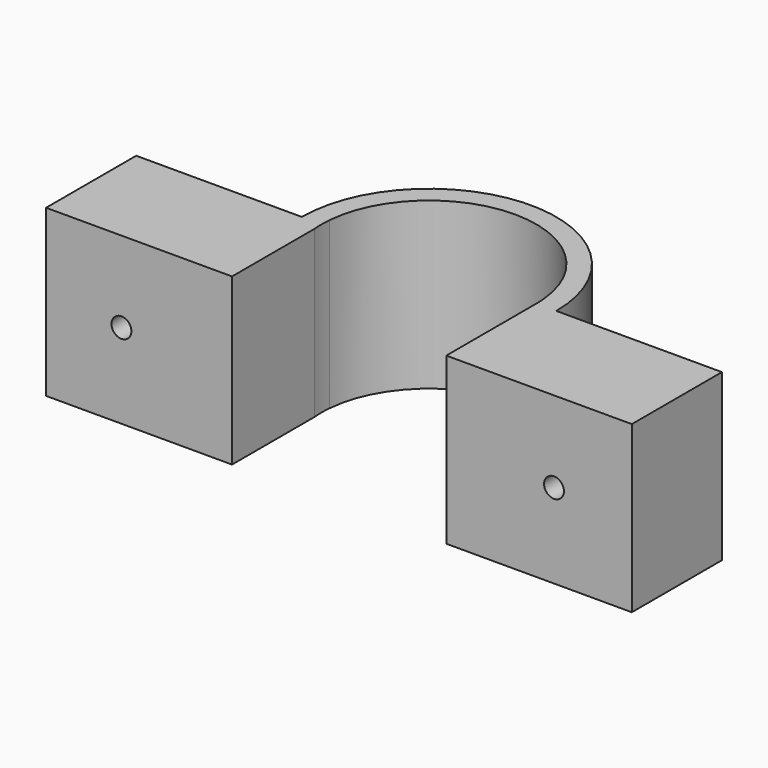
from build123d import *

# Parameters (mm, degrees)
F1_DEPTH = 25
F2_R     = 1.5
F3_DEPTH = 25


with BuildPart() as f1:
    # F0 (on Top) → F1 (new body)
    with BuildSketch(Plane.XY):
        with BuildLine():
            Line((0, 17), (0, 0))
            Line((0, 0), (28.063096, 0))
            Line((28.063096, 0), (28.063096, 15.571595))
            ThreePointArc((28.063096, 15.571595), (28, 17), (28.063096, 18.428405))
            ThreePointArc((28.063096, 18.428405), (44.2, 33.2), (60.336904, 18.428405))
            ThreePointArc((60.336904, 18.428405), (60.384218, 17.714899), (60.4, 17))
            Line((60.4, 17), (60.4, 0))
            Line((60.4, 0), (88.4, 0))
            Line((88.4, 0), (88.4, 17))
            Line((88.4, 17), (63.4, 17))
            ThreePointArc((63.4, 17), (44.2, 36.2), (25, 17))
            Line((25, 17), (0, 17))
        make_face()
    extrude(amount=F1_DEPTH)

    # F2 (on face) → F3 (cut)
    with BuildSketch(Plane(origin=(0, 17, 0), x_dir=(-1, 0, 0), z_dir=(0, 1, 0))):
        with Locations((-11.377418, 12.776785)):
            Circle(F2_R)
        with Locations((-76.657728, 12.748193)):
            Circle(F2_R)
    extrude(amount=-F3_DEPTH, mode=Mode.SUBTRACT)


solid = f1.part
